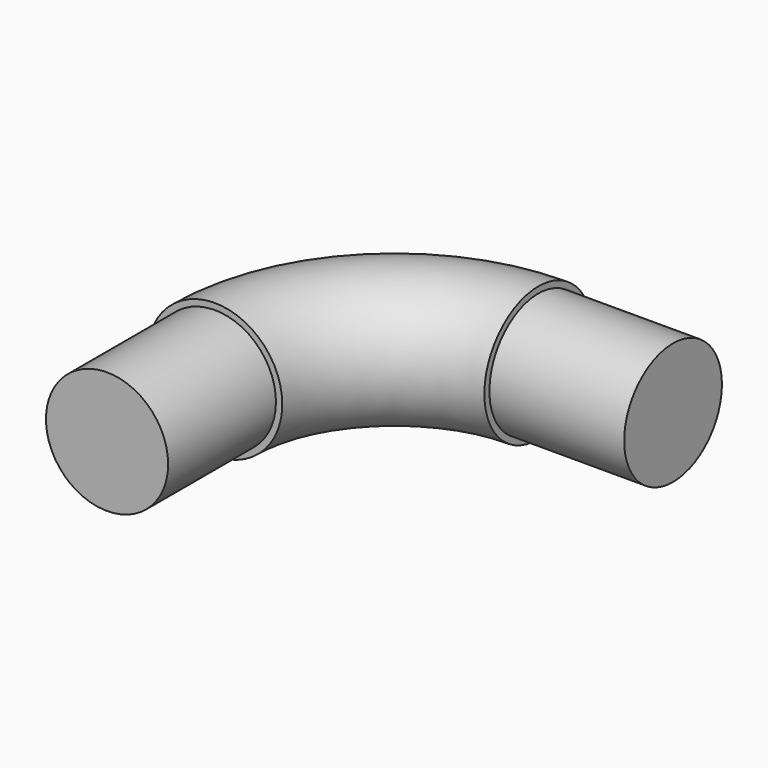
from build123d import *

# Parameters (mm, degrees)
F3_R      = 7.5
F4_R      = 6.8
F7_R      = 6.8
F12_R     = 1.5
F13_DEPTH = 10


with BuildPart() as f8:
    # F8: sweep along a path in F0
    with BuildLine(Plane.XY) as f8_path:
        ThreePointArc((20, 0), (5.857864, -5.857864), (0, -20))
    # F3 (on offset) → F8 (sweep)
    with BuildSketch(Plane.XZ.offset(20)):
        Circle(F3_R)
    sweep(path=f8_path.line)

    # F10: sweep along a path in F0
    with BuildLine(Plane.XY) as f10_path:
        Line((20, 0), (35, 0))
    # F7 (on offset) → F10 (sweep)
    with BuildSketch(Plane.YZ.offset(35)):
        Circle(F7_R)
    sweep(path=f10_path.line)


with BuildPart() as f9:
    # F9: sweep along a path in F0
    with BuildLine(Plane.XY) as f9_path:
        Line((0, -20), (0, -35))
    # F4 (on offset) → F9 (sweep)
    with BuildSketch(Plane.XZ.offset(35)):
        Circle(F4_R)
    sweep(path=f9_path.line)


with BuildPart() as f13_tool:
    # F12 (on offset) → F13 (new body)
    with BuildSketch(Plane.XY.offset(-6.5)):
        with Locations((0, -27.5)):
            Circle(F12_R)
        with Locations((27.5, 0)):
            Circle(F12_R)
    extrude(amount=F13_DEPTH)


with BuildPart() as f8_1:
    add(f8.part)

    # F13: cut by f13_tool
    add(f13_tool.part, mode=Mode.SUBTRACT)


with BuildPart() as f9_1:
    add(f9.part)

    # F13: cut by f13_tool
    add(f13_tool.part, mode=Mode.SUBTRACT)


solid = Compound([f8_1.part, f9_1.part])
